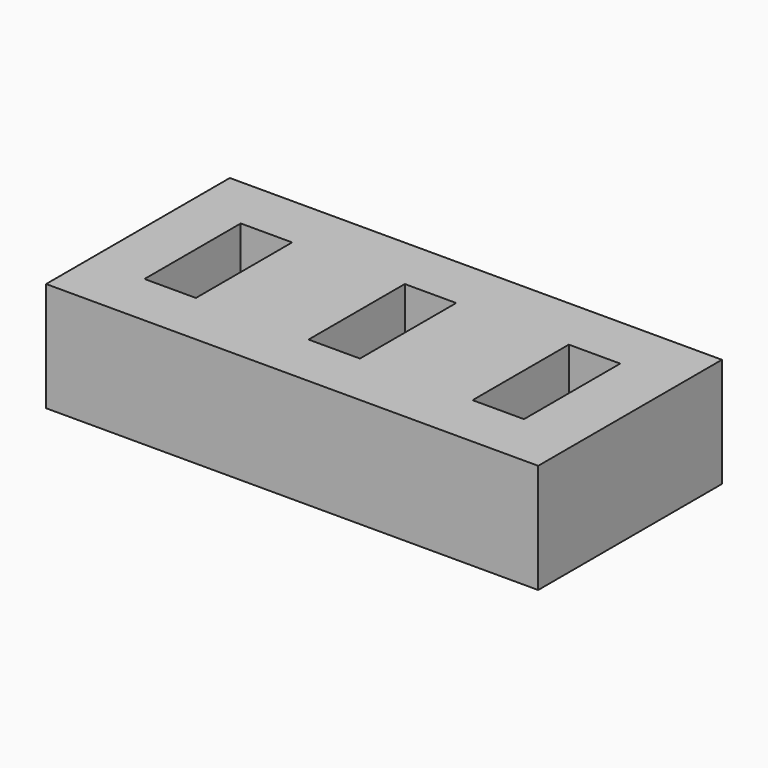
from build123d import *

# Parameters (mm, degrees)
BOX_W        = 4.7
BOX_H        = 11
BOX_DEPTH    = 10
BOX001_W     = 4.7
BOX001_H     = 11
BOX001_DEPTH = 10
BOX002_W     = 4.7
BOX002_H     = 11
BOX002_DEPTH = 10
BOX003_W     = 45
BOX003_H     = 21
BOX003_DEPTH = 10


with BuildPart() as cub:
    # Box → Box (new body)
    with BuildSketch(Plane.XY):
        with Locations((2.35, 5.5)):
            Rectangle(BOX_W, BOX_H)
    extrude(amount=BOX_DEPTH)


with BuildPart() as cub001:
    # Box001 → Box001 (new body)
    with BuildSketch(Plane(origin=(15, 0, 0), x_dir=(1, 0, 0), z_dir=(0, 0, 1))):
        with Locations((2.35, 5.5)):
            Rectangle(BOX001_W, BOX001_H)
    extrude(amount=BOX001_DEPTH)


with BuildPart() as cub002:
    # Box002 → Box002 (new body)
    with BuildSketch(Plane(origin=(30, 0, 0), x_dir=(1, 0, 0), z_dir=(0, 0, 1))):
        with Locations((2.35, 5.5)):
            Rectangle(BOX002_W, BOX002_H)
    extrude(amount=BOX002_DEPTH)


with BuildPart() as cut002:
    # Box003 → Box003 (new body)
    with BuildSketch(Plane(origin=(-5, -5, 0), x_dir=(1, 0, 0), z_dir=(0, 0, 1))):
        with Locations((22.5, 10.5)):
            Rectangle(BOX003_W, BOX003_H)
    extrude(amount=BOX003_DEPTH)

    # Cut: cut Cub002
    add(cub002.part, mode=Mode.SUBTRACT)

    # Cut001: cut Cub001
    add(cub001.part, mode=Mode.SUBTRACT)

    # Cut002: cut Cub
    add(cub.part, mode=Mode.SUBTRACT)


solid = cut002.part
